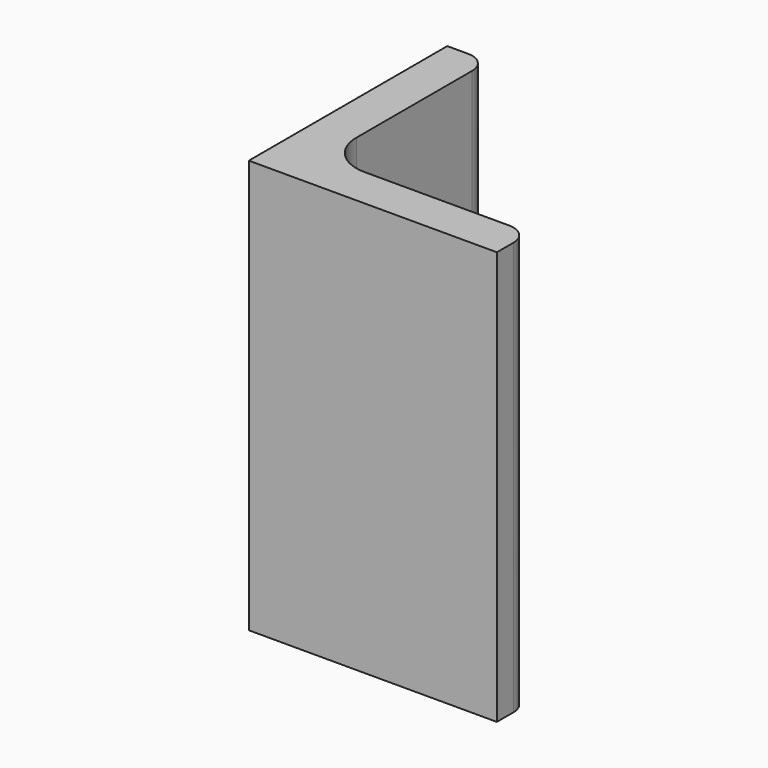
from build123d import *

# Parameters (mm, degrees)
EXTRUDE_DEPTH = 50


with BuildPart() as part:
    # Sketch → Extrude (new body)
    with BuildSketch(Plane.XY):
        with BuildLine():
            Line((0, 0), (30, 0))
            Line((30, 0), (30, 2.5))
            ThreePointArc((30, 2.5), (29.267767, 4.267767), (27.5, 5))
            Line((27.5, 5), (10, 5))
            ThreePointArc((5, 10), (6.464466, 6.464466), (10, 5))
            Line((5, 27.5), (5, 10))
            ThreePointArc((5, 27.5), (4.267767, 29.267767), (2.5, 30))
            Line((0, 30), (2.5, 30))
            Line((0, 0), (0, 30))
        make_face()
    extrude(amount=EXTRUDE_DEPTH)


solid = part.part
